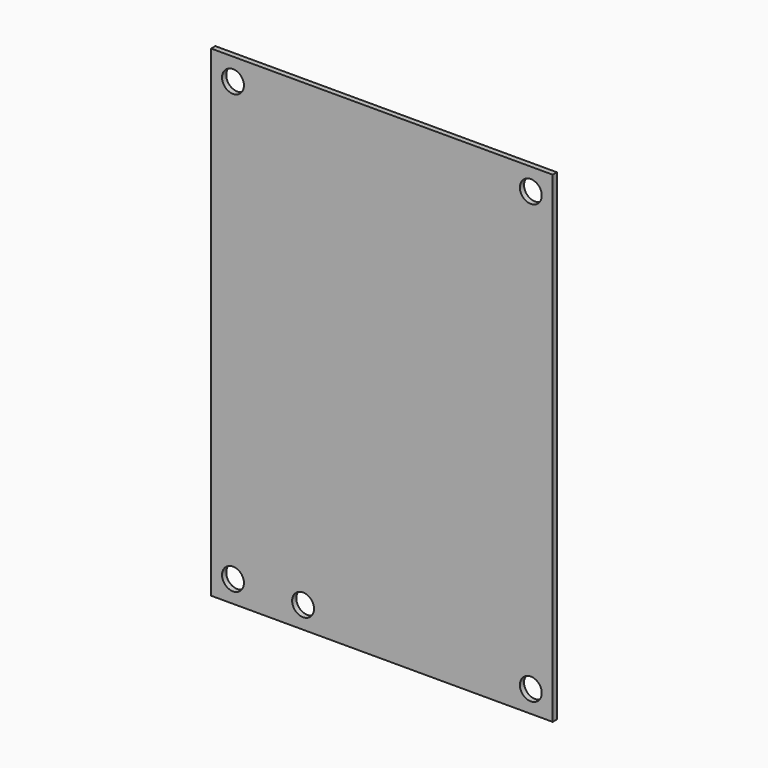
from build123d import *

# Parameters (mm, degrees)
F0_W     = 123.825
F0_H     = 174.625
F0_R     = 3.96875
F1_DEPTH = 1.905


with BuildPart() as f1:
    # F0 (on Front) → F1 (new body)
    with BuildSketch(Plane.XZ):
        Rectangle(F0_W, F0_H)
        with Locations((-53.975, -79.375)):
            Circle(F0_R, mode=Mode.SUBTRACT)
        with Locations((-28.575, -79.375)):
            Circle(F0_R, mode=Mode.SUBTRACT)
        with Locations((53.975, -79.375)):
            Circle(F0_R, mode=Mode.SUBTRACT)
        with Locations((-53.975, 79.375)):
            Circle(F0_R, mode=Mode.SUBTRACT)
        with Locations((53.975, 79.375)):
            Circle(F0_R, mode=Mode.SUBTRACT)
    extrude(amount=F1_DEPTH)


solid = f1.part
